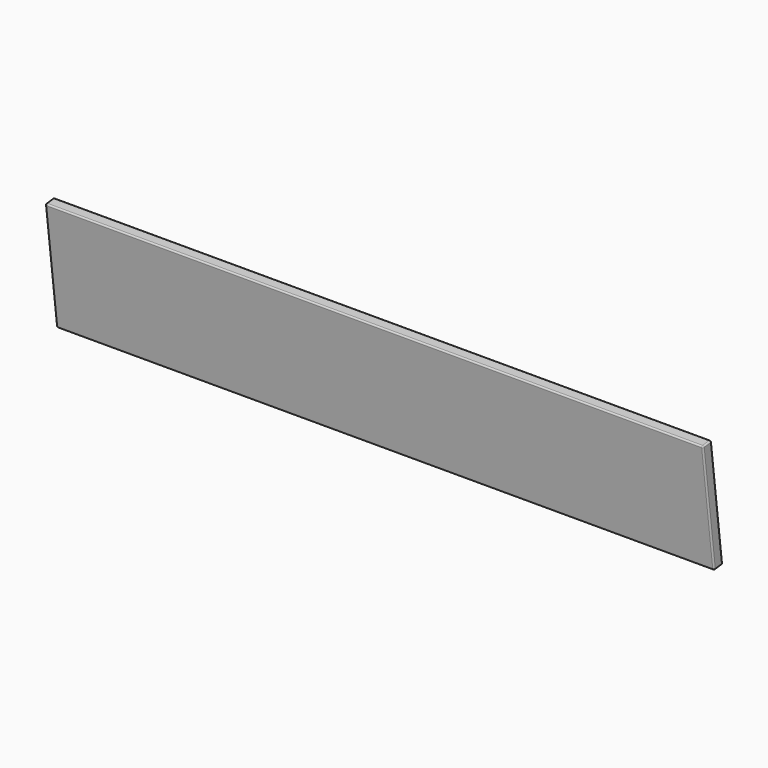
from build123d import *

# Parameters (mm, degrees)
F1_DEPTH = 2300
F2_R     = 5
F3_R     = 5


with BuildPart() as f1:
    # F0 (on Right) → F1 (new body)
    with BuildSketch(Plane.YZ):
        with BuildLine():
            ThreePointArc((109.3978564406, 919.1393998067), (106.0671493896, 917.2549764252), (105.0444723994, 913.5673223315))
            Line((105.0444723994, 913.5673223315), (153.0993439735, 522.1918006805))
            ThreePointArc((153.0993439735, 522.1918006805), (154.983767355, 518.8610936295), (158.6714214487, 517.8384166393))
            Line((158.6714214487, 517.8384166393), (186.0489625337, 521.199956))
            ThreePointArc((186.0489625337, 521.199956), (189.3796695847, 523.0843793816), (190.4023465749, 526.7720334753))
            Line((190.4023465749, 526.7720334753), (142.3474750008, 918.1475551263))
            ThreePointArc((142.3474750008, 918.1475551263), (140.4630516192, 921.4782621773), (136.7753975256, 922.5009391675))
            Line((136.7753975256, 922.5009391675), (109.3978564406, 919.1393998067))
        make_face()
    extrude(amount=-F1_DEPTH)

    # F2
    f2_edges = [f1.edges().sort_by_distance(p)[0] for p in [
        (0, 140.463052, 921.478262),
        (0, 123.086627, 920.820169),
        (0, 106.067149, 917.254976),
        (0, 129.071908, 717.879562),
        (0, 154.983767, 518.861094),
        (0, 172.360192, 519.519186),
        (0, 189.37967, 523.084379),
        (0, 166.374911, 722.459794),
    ]]
    fillet(f2_edges, radius=F2_R)

    # F3
    f3_edges = [f1.edges().sort_by_distance(p)[0] for p in [
        (-2300, 140.463052, 921.478262),
        (-2300, 123.086627, 920.820169),
        (-2300, 106.067149, 917.254976),
        (-2300, 129.071908, 717.879562),
        (-2300, 154.983767, 518.861094),
        (-2300, 172.360192, 519.519186),
        (-2300, 189.37967, 523.084379),
        (-2300, 166.374911, 722.459794),
    ]]
    fillet(f3_edges, radius=F3_R)


solid = f1.part
